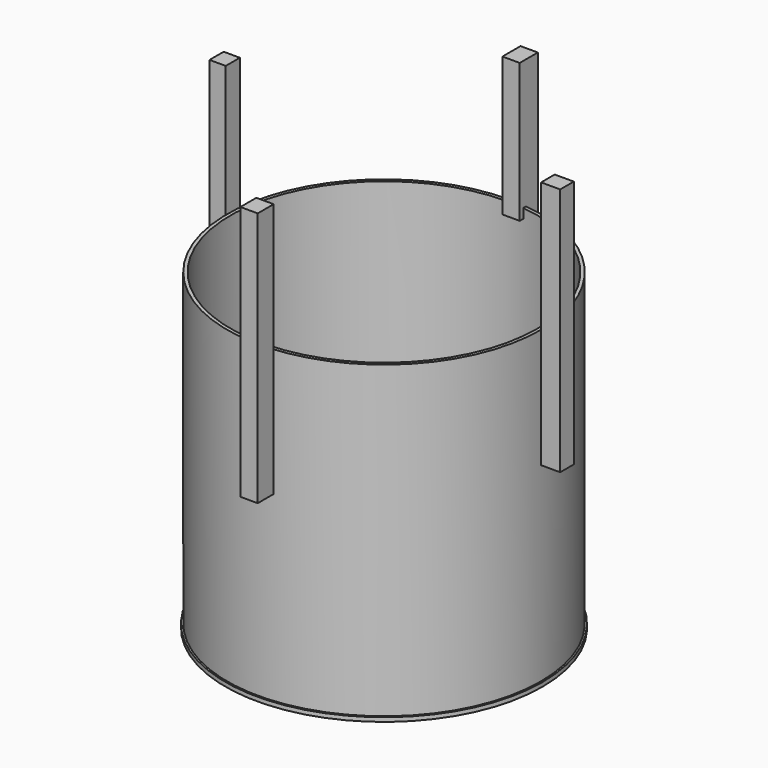
from build123d import *

# Parameters (mm, degrees)
F0_R      = 228.6
F1_DEPTH  = 457.2
F2_R      = 223.673346771
F3_DEPTH  = 457.201
F4_R      = 231.1817516989
F5_DEPTH  = 6
F6_W      = 25.2598356456
F6_H      = 21.5632617474
F7_DEPTH  = 458
F8_W      = 25.2598356456
F8_H      = 20.7158460617
F9_DEPTH  = 35
F10_W     = 25.2598356456
F10_H     = 23.5666930676
F11_DEPTH = 464.001
F12_W     = 25.2598356456
F12_H     = 17.556566596
F13_DEPTH = 162
F14_W     = 25.2598356456
F14_H     = 16.4982843399
F15_DEPTH = 183
F16_DEPTH = 494
F17_W     = 25.2598356456
F17_H     = 29.0536686182
F18_DEPTH = 189
F20_DEPTH = 256.4425873445
F21_DEPTH = 25
F22_DEPTH = 223
F23_W     = 24.816502586
F23_H     = 183
F24_DEPTH = 232
F25_W     = 204.1333634406
F25_H     = 183
F26_DEPTH = 286.0359315554
F27_DEPTH = 180
F28_W     = 25.7785625309
F28_H     = 183
F29_DEPTH = 254
F30_W     = 255.6209247559
F30_H     = 183
F31_DEPTH = 249.2808553705
F32_DEPTH = 184
F33_DEPTH = 182


with BuildPart() as f1:
    # F0 (on Top) → F1 (new body)
    with BuildSketch(Plane.XY):
        Circle(F0_R)
    extrude(amount=F1_DEPTH)

    # F2 (on face) → F3 (cut, through all)
    with BuildSketch(Plane.XY.offset(457.2)):
        Circle(F2_R)
    extrude(amount=-F3_DEPTH, mode=Mode.SUBTRACT)

    # F4 (on Top) → F5 (join)
    with BuildSketch(Plane.XY):
        Circle(F4_R)
    extrude(amount=F5_DEPTH)

    # F6 (on face) → F7 (join)
    with BuildSketch(Plane.XY.offset(6)):
        with Locations((12.6299178228, 203.0028104782)):
            Rectangle(F6_W, F6_H)
    extrude(amount=F7_DEPTH)

    # F8 (on face) → F9 (join)
    with BuildSketch(Plane(origin=(0, 213.7844413519, 0), x_dir=(-1, 0, 0), z_dir=(0, 1, 0))):
        with Locations((-12.6299178228, 453.6420769691)):
            Rectangle(F8_W, F8_H)
    extrude(amount=F9_DEPTH)

    # F10 (on face) → F11 (cut, through all)
    with BuildSketch(Plane.XY.offset(464)):
        with Locations((12.6299178228, 204.0045261383)):
            Rectangle(F10_W, F10_H)
    extrude(amount=-F11_DEPTH, mode=Mode.SUBTRACT)

    # F12 (on face) → F13 (join)
    with BuildSketch(Plane(origin=(0, 0, 443.2841539383), x_dir=(1, 0, 0), z_dir=(0, 0, -1))):
        with Locations((12.6299178228, -240.0061580539)):
            Rectangle(F12_W, F12_H)
    extrude(amount=F13_DEPTH)

    # F14 (on face) → F15 (join)
    with BuildSketch(Plane.XY.offset(464)):
        with Locations((12.6299178228, 240.5352991819)):
            Rectangle(F14_W, F14_H)
    extrude(amount=F15_DEPTH)

    # F16 (add): a face of the model
    f16_faces = [f1.faces().sort_by_distance(p)[0] for p in [
        (12.6299178228, 232.286157012, 555.5),
    ]]
    extrude(f16_faces, amount=F16_DEPTH)

    # F17 (on face) → F18 (join)
    with BuildSketch(Plane(origin=(0, 0, 464), x_dir=(1, 0, 0), z_dir=(0, 0, -1))):
        with Locations((12.6299178228, 247.1870086789)):
            Rectangle(F17_W, F17_H)
    extrude(amount=F18_DEPTH)

    # F19 (on face) → F20 (cut, through all)
    with BuildSketch(Plane.YZ.offset(25.2598356456)):
        Polygon((-232.6601743698, 647), (-232.6601743698, 464), (215.7878726721, 464), (222.5045859814, 464), (222.5045859814, 647), align=None)
    extrude(amount=-F20_DEPTH, mode=Mode.SUBTRACT)

    # F21 (add): a face of the model
    f21_faces = [f1.faces().sort_by_distance(p)[0] for p in [
        (12.6299178228, 192.2211796045, 3),
    ]]
    extrude(f21_faces, amount=F21_DEPTH)

    # F22 (add): a face of the model
    f22_faces = [f1.faces().sort_by_distance(p)[0] for p in [
        (12.6299178228, 222.5045859814, 555.5),
    ]]
    extrude(f22_faces, amount=F22_DEPTH)

    # F23 (on face) → F24 (join)
    with BuildSketch(Plane.YZ.offset(25.2598356456)):
        with Locations((11.9128372744, 555.5)):
            Rectangle(F23_W, F23_H)
    extrude(amount=F24_DEPTH)

    # F25 (on face) → F26 (cut, through all)
    with BuildSketch(Plane(origin=(0, 24.3210885674, 0), x_dir=(-1, 0, 0), z_dir=(0, 1, 0))):
        with Locations((-127.3265173659, 555.5)):
            Rectangle(F25_W, F25_H)
    extrude(amount=-F26_DEPTH, mode=Mode.SUBTRACT)

    # F27 (add): a face of the model
    f27_faces = [f1.faces().sort_by_distance(p)[0] for p in [
        (243.3265173659, 11.9128372744, 464),
    ]]
    extrude(f27_faces, amount=F27_DEPTH)

    # F28 (on face) → F29 (join)
    with BuildSketch(Plane(origin=(0, 0, 0), x_dir=(0, -1, 0), z_dir=(-1, 0, 0))):
        with Locations((-12.3938672468, 555.5)):
            Rectangle(F28_W, F28_H)
    extrude(amount=F29_DEPTH)

    # F30 (on face) → F31 (cut, through all)
    with BuildSketch(Plane.XZ.offset(0.4954140186)):
        with Locations((-102.5506267324, 555.5)):
            Rectangle(F30_W, F30_H)
    extrude(amount=-F31_DEPTH, mode=Mode.SUBTRACT)

    # F32 (add): a face of the model
    f32_faces = [f1.faces().sort_by_distance(p)[0] for p in [
        (-242.1805445552, 12.3938672468, 464),
    ]]
    extrude(f32_faces, amount=F32_DEPTH)

    # F33 (add): a face of the model
    f33_faces = [f1.faces().sort_by_distance(p)[0] for p in [
        (12.6299178228, 232.286157012, 464),
    ]]
    extrude(f33_faces, amount=F33_DEPTH)


solid = f1.part
